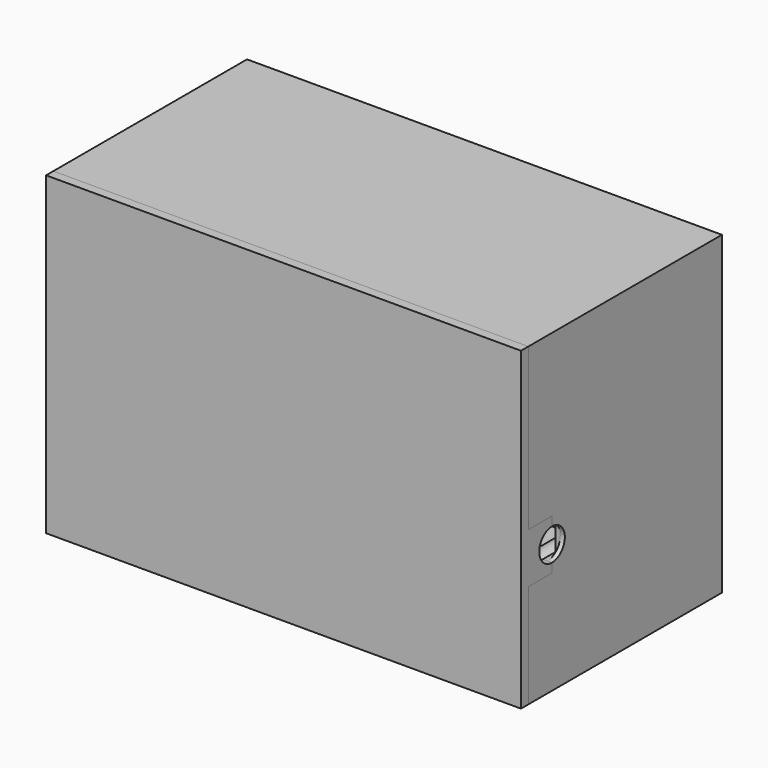
from build123d import *

# Parameters (mm, degrees)
SKETCH_W        = 104
SKETCH_H        = 53
PAD_DEPTH       = 2
PAD001_DEPTH    = 65
SKETCH002_W     = 104
SKETCH002_H     = 53
PAD002_DEPTH    = 2
SKETCH003_W     = 98
SKETCH003_H     = 40
POCKET_DEPTH    = 5
SKETCH004_R     = 3
PAD003_DEPTH    = 5
SKETCH005_R     = 1.1
POCKET001_DEPTH = 6
SKETCH006_W     = 102
SKETCH006_H     = 67
POCKET002_DEPTH = 10
POCKET004_DEPTH = 5
POCKET006_DEPTH = 5
SKETCH016_W     = 9
SKETCH016_H     = 25
POCKET007_DEPTH = 5
SKETCH032_W     = 9
SKETCH032_H     = 4
PAD016_DEPTH    = 2
SKETCH033_W     = 10
SKETCH033_H     = 5
POCKET014_DEPTH = 5
SKETCH034_R     = 7
SKETCH034_W     = 13
SKETCH034_H     = 11
POCKET015_DEPTH = 5
SKETCH035_W     = 17
SKETCH035_H     = 15
PAD017_DEPTH    = 5
PAD018_DEPTH    = 17
SKETCH037_W     = 13
SKETCH037_H     = 11
POCKET016_DEPTH = 1
SKETCH038_W     = 5
SKETCH038_H     = 11
POCKET017_DEPTH = 5
SKETCH007_W     = 104
SKETCH007_H     = 69
PAD004_DEPTH    = 2
SKETCH008_W     = 102
SKETCH008_H     = 67
SKETCH008_W_2   = 100
SKETCH008_H_2   = 65
PAD005_DEPTH    = 10
SKETCH009_W     = 46
SKETCH009_H     = 53
PAD006_DEPTH    = 1
SKETCH010_R     = 2.5
SKETCH010_W     = 4
SKETCH010_H     = 8
SKETCH010_W_2   = 3
SKETCH010_H_2   = 12
SKETCH010_W_3   = 7
SKETCH010_W_4   = 46
SKETCH010_H_3   = 2
PAD007_DEPTH    = 17
POCKET005_DEPTH = 2
PAD008_DEPTH    = 1
SKETCH017_W     = 8.8
SKETCH017_H     = 10
PAD009_DEPTH    = 1
PAD010_DEPTH    = 2
SKETCH030_W     = 5
SKETCH030_H     = 2
POCKET013_DEPTH = 5
SKETCH039_R     = 1.1
POCKET018_DEPTH = 7
SKETCH021_W     = 8.8
SKETCH021_H     = 24
PAD019_DEPTH    = 2
PAD020_DEPTH    = 2
SKETCH041_W     = 5
SKETCH041_H     = 8
PAD021_DEPTH    = 1


with BuildPart() as front:
    # Sketch → Pad (new body)
    with BuildSketch(Plane.XY):
        Rectangle(SKETCH_W, SKETCH_H)
    extrude(amount=PAD_DEPTH)

    # Sketch001 (on Face6 of Pad) → Pad001 (join)
    with BuildSketch(Plane.XY.offset(2)):
        Polygon((-52, 26.5), (52, 26.5), (52, -26.5), (50, -26.5), (50, 24.5), (-50, 24.5), (-50, -26.5), (-52, -26.5), align=None)
    extrude(amount=PAD001_DEPTH)

    # Sketch002 (on Face9 of Pad001) → Pad002 (join)
    with BuildSketch(Plane.XY.offset(67)):
        Rectangle(SKETCH002_W, SKETCH002_H)
    extrude(amount=PAD002_DEPTH)

    # Sketch003 (on Face18 of Pad002) → Pocket (cut)
    with BuildSketch(Plane.XZ.offset(-24.5)):
        with Locations((0, 34.5)):
            Rectangle(SKETCH003_W, SKETCH003_H)
    extrude(amount=-POCKET_DEPTH, mode=Mode.SUBTRACT)

    # Sketch004 (on Face20 of Pocket) → Pad003 (join)
    with BuildSketch(Plane.XZ.offset(-24.5)):
        with Locations((-46.5, 62.5)):
            Circle(SKETCH004_R)
        with Locations((46.5, 62.5)):
            Circle(SKETCH004_R)
        with Locations((46.5, 6.5)):
            Circle(SKETCH004_R)
        with Locations((-46.5, 6.5)):
            Circle(SKETCH004_R)
    extrude(amount=PAD003_DEPTH)

    # Sketch005 (on Face29 of Pad003) → Pocket001 (cut)
    with BuildSketch(Plane.XZ.offset(-19.5)):
        with Locations((-46.5, 62.5)):
            Circle(SKETCH005_R)
        with Locations((46.5, 62.5)):
            Circle(SKETCH005_R)
        with Locations((46.5, 6.5)):
            Circle(SKETCH005_R)
        with Locations((-46.5, 6.5)):
            Circle(SKETCH005_R)
    extrude(amount=-POCKET001_DEPTH, mode=Mode.SUBTRACT)

    # Sketch006 (on Face22 of Pocket001) → Pocket002 (cut)
    with BuildSketch(Plane.XZ.offset(26.5)):
        with Locations((0, 34.5)):
            Rectangle(SKETCH006_W, SKETCH006_H)
    extrude(amount=-POCKET002_DEPTH, mode=Mode.SUBTRACT)

    # Sketch012 (on Face8 of Pocket002) → Pocket004 (cut)
    with BuildSketch(Plane.YZ.offset(52)):
        with BuildLine():
            ThreePointArc((-20, 24.7), (-16.5, 28.2), (-20, 31.7))
            Line((-20, 33.7), (-20, 31.7))
            Line((-26.5, 33.7), (-20, 33.7))
            Line((-26.5, 33.7), (-26.5, 22.7))
            Line((-26.5, 22.7), (-20, 22.7))
            Line((-20, 22.7), (-20, 24.7))
        make_face()
    extrude(amount=-POCKET004_DEPTH, mode=Mode.SUBTRACT)

    # Sketch015 (on Face4 of Pocket004) → Pocket006 (cut)
    with BuildSketch(Plane(origin=(0, 0, 0), x_dir=(1, 0, 0), z_dir=(0, 0, -1))):
        with BuildLine():
            Line((31, 3.5), (35, 3.5))
            ThreePointArc((35, -0.5), (35.5, 1.5), (35, 3.5))
            Line((31, -0.5), (35, -0.5))
            ThreePointArc((31, 3.5), (30.5, 1.5), (31, -0.5))
        make_face()
    extrude(amount=-POCKET006_DEPTH, mode=Mode.SUBTRACT)

    # Sketch016 (on Face4 of Pocket006) → Pocket007 (cut)
    with BuildSketch(Plane(origin=(0, 0, 0), x_dir=(1, 0, 0), z_dir=(0, 0, -1))):
        with Locations((33, 14)):
            Rectangle(SKETCH016_W, SKETCH016_H)
    extrude(amount=-POCKET007_DEPTH, mode=Mode.SUBTRACT)

    # Sketch032 → Pad016 (join)
    with BuildSketch(Plane.XY.offset(2)):
        with Locations((33, 1.5)):
            Rectangle(SKETCH032_W, SKETCH032_H)
    extrude(amount=PAD016_DEPTH)

    # Sketch033 (on Face7 of Pad016) → Pocket014 (cut)
    with BuildSketch(Plane(origin=(-52, 0, 0), x_dir=(0, -1, 0), z_dir=(-1, 0, 0))):
        with BuildLine():
            Line((26.5, 63.5), (19, 63.5))
            Line((19, 63.5), (19, 61.5))
            ThreePointArc((19, 61.5), (16.5, 59), (19, 56.5))
            Line((19, 54.5), (19, 56.5))
            Line((26.5, 54.5), (19, 54.5))
            Line((26.5, 63.5), (26.5, 54.5))
        make_face()
        with Locations((21.5, 42)):
            Rectangle(SKETCH033_W, SKETCH033_H)
        with Locations((21.5, 27)):
            Rectangle(SKETCH033_W, SKETCH033_H)
    extrude(amount=-POCKET014_DEPTH, mode=Mode.SUBTRACT)

    # Sketch034 (on Face4 of Pocket014) → Pocket015 (cut)
    with BuildSketch(Plane(origin=(0, 0, 0), x_dir=(1, 0, 0), z_dir=(0, 0, -1))):
        with Locations((-33, 0)):
            Circle(SKETCH034_R)
        with Locations((-7.5, 0)):
            Rectangle(SKETCH034_W, SKETCH034_H)
    extrude(amount=-POCKET015_DEPTH, mode=Mode.SUBTRACT)

    # Sketch035 (on Face56 of Pocket015) → Pad017 (join)
    with BuildSketch(Plane.XY.offset(2)):
        with Locations((-7.5, 0)):
            Rectangle(SKETCH035_W, SKETCH035_H)
    extrude(amount=PAD017_DEPTH)

    # Sketch036 (on Face78 of Pad017) → Pad018 (join)
    with BuildSketch(Plane(origin=(-16, 0, 0), x_dir=(0, -1, 0), z_dir=(-1, 0, 0))):
        Polygon((-7.5, 7), (-7.5, 2), (-12.5, 2), align=None)
    extrude(amount=-PAD018_DEPTH)

    # Sketch037 (on Face59 of Pad018) → Pocket016 (cut)
    with BuildSketch(Plane(origin=(0, 0, 2), x_dir=(1, 0, 0), z_dir=(0, 0, -1))):
        with Locations((-7.5, 0)):
            Rectangle(SKETCH037_W, SKETCH037_H)
    extrude(amount=-POCKET016_DEPTH, mode=Mode.SUBTRACT)

    # Sketch038 (on Face85 of Pocket016) → Pocket017 (cut)
    with BuildSketch(Plane(origin=(0, 0, 3), x_dir=(1, 0, 0), z_dir=(0, 0, -1))):
        with Locations((-11.5, 0)):
            Rectangle(SKETCH038_W, SKETCH038_H)
    extrude(amount=-POCKET017_DEPTH, mode=Mode.SUBTRACT)


with BuildPart() as back:
    # Sketch007 → Pad004 (new body)
    with BuildSketch(Plane.XZ):
        with Locations((0, 34.5)):
            Rectangle(SKETCH007_W, SKETCH007_H)
    extrude(amount=PAD004_DEPTH)

    # Sketch008 (on Face5 of Pad004) → Pad005 (join)
    with BuildSketch(Plane(origin=(0, 0, 0), x_dir=(1, 0, 0), z_dir=(0, 1, 0))):
        with Locations((0, -34.5)):
            Rectangle(SKETCH008_W, SKETCH008_H)
        with Locations((0, -34.5)):
            Rectangle(SKETCH008_W_2, SKETCH008_H_2, mode=Mode.SUBTRACT)
    extrude(amount=PAD005_DEPTH)

    # Sketch009 (on Face16 of Pad005) → Pad006 (join)
    with BuildSketch(Plane(origin=(0, 0, 0), x_dir=(1, 0, 0), z_dir=(0, 1, 0))):
        with Locations((26, -34.5)):
            Rectangle(SKETCH009_W, SKETCH009_H)
    extrude(amount=PAD006_DEPTH)

    # Sketch010 (on Face21 of Pad006) → Pad007 (join)
    with BuildSketch(Plane(origin=(0, 1, 0), x_dir=(1, 0, 0), z_dir=(0, 1, 0))):
        with Locations((45.2, -20.2)):
            Circle(SKETCH010_R)
        with Locations((38.5, -48.2)):
            Circle(SKETCH010_R)
        with Locations((5, -17)):
            Rectangle(SKETCH010_W, SKETCH010_H)
        with Locations((21.5, -14)):
            Rectangle(SKETCH010_W_2, SKETCH010_H_2)
        with Locations((6.5, -31)):
            Rectangle(SKETCH010_W_3, SKETCH010_H)
        with Locations((26, -60)):
            Rectangle(SKETCH010_W_4, SKETCH010_H_3)
    extrude(amount=PAD007_DEPTH)

    # Sketch013 → Pocket005 (cut)
    with BuildSketch(Plane(origin=(51, 0, 0), x_dir=(0, 0, 1), z_dir=(1, 0, 0))):
        with BuildLine():
            Line((31.7, -6.5), (31.7, -10))
            Line((31.7, -10), (24.7, -10))
            Line((24.7, -10), (24.7, -6.5))
            ThreePointArc((31.7, -6.5), (28.2, -3), (24.7, -6.5))
        make_face()
    extrude(amount=-POCKET005_DEPTH, mode=Mode.SUBTRACT)

    # Sketch014 (on Face9 of Pocket005) → Pad008 (join)
    with BuildSketch(Plane(origin=(51, 0, 0), x_dir=(0, 0, 1), z_dir=(1, 0, 0))):
        with BuildLine():
            Line((22.7, 0), (33.7, 0))
            Line((33.7, 0), (33.7, -6.5))
            Line((33.7, -6.5), (31.7, -6.5))
            ThreePointArc((31.7, -6.5), (28.2, -3), (24.7, -6.5))
            Line((22.7, -6.5), (24.7, -6.5))
            Line((22.7, 0), (22.7, -6.5))
        make_face()
    extrude(amount=PAD008_DEPTH)

    # Sketch017 (on Face10 of Pad008) → Pad009 (join)
    with BuildSketch(Plane(origin=(0, 0, 1), x_dir=(1, 0, 0), z_dir=(0, 0, -1))):
        with Locations((33, -5)):
            Rectangle(SKETCH017_W, SKETCH017_H)
    extrude(amount=PAD009_DEPTH)

    # Sketch020 (on Face15 of Pad009) → Pad010 (join)
    with BuildSketch(Plane(origin=(0, 0, 0), x_dir=(1, 0, 0), z_dir=(0, 0, -1))):
        with BuildLine():
            Line((30.5, -25), (28.6, -25))
            Line((28.6, -25), (28.6, -10))
            Line((28.6, -10), (37.4, -10))
            Line((37.4, -10), (37.4, -25))
            Line((37.4, -25), (35.5, -25))
            ThreePointArc((35.5, -25), (35.373107, -23.969223), (35, -23))
            Line((31, -23), (35, -23))
            ThreePointArc((31, -23), (30.626895, -23.969224), (30.5, -25))
        make_face()
    extrude(amount=-PAD010_DEPTH)

    # Sketch030 → Pocket013 (cut)
    with BuildSketch(Plane(origin=(-51, 0, 0), x_dir=(0, 0, -1), z_dir=(-1, 0, 0))):
        with Locations((-42, -9)):
            Rectangle(SKETCH030_W, SKETCH030_H)
        with Locations((-27, -9)):
            Rectangle(SKETCH030_W, SKETCH030_H)
        with BuildLine():
            Line((-61.5, -10), (-61.5, -7.5))
            ThreePointArc((-56.5, -7.5), (-59, -5), (-61.5, -7.5))
            Line((-56.5, -10), (-56.5, -7.5))
            Line((-61.5, -10), (-56.5, -10))
        make_face()
    extrude(amount=-POCKET013_DEPTH, mode=Mode.SUBTRACT)

    # Sketch039 → Pocket018 (cut)
    with BuildSketch(Plane(origin=(0, 18, 0), x_dir=(1, 0, 0), z_dir=(0, 1, 0))):
        with Locations((45.2, -20.2)):
            Circle(SKETCH039_R)
        with Locations((38.5, -48.2)):
            Circle(SKETCH039_R)
    extrude(amount=-POCKET018_DEPTH, mode=Mode.SUBTRACT)

    # Sketch021 (on Face32 of Pad010) → Pad019 (join)
    with BuildSketch(Plane(origin=(0, 0, 2), x_dir=(-1, 0, 0), z_dir=(0, 0, 1))):
        with Locations((-33, -12)):
            Rectangle(SKETCH021_W, SKETCH021_H)
    extrude(amount=PAD019_DEPTH)

    # Sketch040 (on Face54 of Pad019) → Pad020 (join)
    with BuildSketch(Plane(origin=(0, 0, 2), x_dir=(-1, 0, 0), z_dir=(0, 0, 1))):
        Polygon((-37.4, -24), (-37.4, 0), (-47.4, 0), align=None)
        Polygon((-28.6, -24), (-28.6, 0), (-18.6, 0), align=None)
    extrude(amount=PAD020_DEPTH)

    # Sketch041 (on Face11 of Pad020) → Pad021 (join)
    with BuildSketch(Plane(origin=(-51, 0, 0), x_dir=(0, 0, -1), z_dir=(-1, 0, 0))):
        with BuildLine():
            Line((-61.5, -7.5), (-63.5, -7.5))
            Line((-63.5, -7.5), (-63.5, 0))
            Line((-63.5, 0), (-54.5, 0))
            Line((-54.5, 0), (-54.5, -7.5))
            Line((-54.5, -7.5), (-56.5, -7.5))
            ThreePointArc((-56.5, -7.5), (-59, -5), (-61.5, -7.5))
        make_face()
        with Locations((-42, -4)):
            Rectangle(SKETCH041_W, SKETCH041_H)
        with Locations((-27, -4)):
            Rectangle(SKETCH041_W, SKETCH041_H)
    extrude(amount=PAD021_DEPTH)


with BuildPart() as back_1:
    # Body001 placement: moved
    add(back.part.moved(Location((0, -26.5, 0))))


solid = Compound([front.part, back_1.part])
